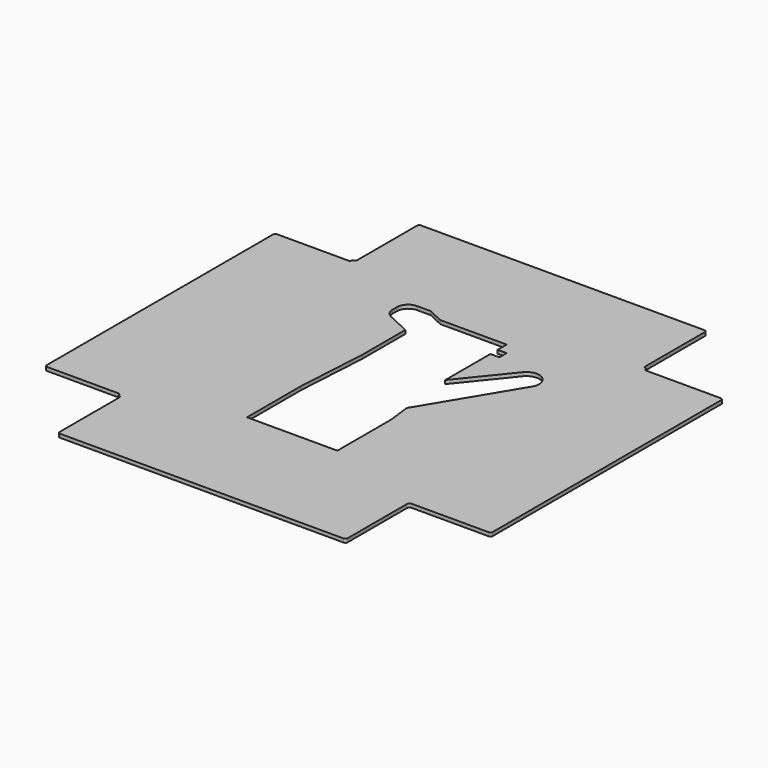
from build123d import *

# Parameters (mm, degrees)
F1_DEPTH = 4.064


with BuildPart() as f1:
    # F0 (on Top) → F1 (new body)
    with BuildSketch(Plane.XY):
        with BuildLine():
            ThreePointArc((327.758026, -3.585924), (328.687962, -1.340859), (330.933026, -0.410924))
            Line((330.933026, -0.410924), (334.172324, -0.410924))
            Line((334.172324, -0.410924), (334.172324, 326.015081))
            Line((334.172324, 326.015081), (333.473026, 326.015081))
            ThreePointArc((333.473026, 326.015081), (331.676975, 326.759029), (330.933026, 328.555081))
            Line((330.933026, 328.555081), (330.933026, 329.190081))
            Line((330.933026, 329.190081), (330.298026, 329.190081))
            ThreePointArc((330.298026, 329.190081), (328.501975, 329.934029), (327.758026, 331.730081))
            Line((327.758026, 331.730081), (327.758026, 415.550081))
            ThreePointArc((327.758026, 415.550081), (327.014077, 417.346132), (325.218026, 418.090081))
            Line((325.218026, 418.090081), (6.432805, 418.090081))
            ThreePointArc((6.432805, 418.090081), (4.636754, 417.346132), (3.892805, 415.550081))
            Line((3.892805, 415.550081), (3.892805, 331.730081))
            ThreePointArc((3.892805, 331.730081), (3.148856, 329.934029), (1.352805, 329.190081))
            Line((1.352805, 329.190081), (0.717805, 329.190081))
            Line((0.717805, 329.190081), (0.717805, 328.555081))
            ThreePointArc((0.717805, 328.555081), (-0.026144, 326.759029), (-1.822195, 326.015081))
            Line((-1.822195, 326.015081), (-81.832195, 326.015081))
            ThreePointArc((-81.832195, 326.015081), (-83.628246, 325.271132), (-84.372195, 323.475081))
            Line((-84.372195, 323.475081), (-84.372195, 5.304076))
            ThreePointArc((-84.372195, 5.304076), (-83.628246, 3.508025), (-81.832195, 2.764076))
            Line((-81.832195, 2.764076), (-1.822195, 2.764076))
            ThreePointArc((-1.822195, 2.764076), (-0.026144, 2.020128), (0.717805, 0.224076))
            Line((0.717805, 0.224076), (0.717805, -0.410924))
            Line((0.717805, -0.410924), (1.352805, -0.410924))
            ThreePointArc((1.352805, -0.410924), (3.148856, -1.154872), (3.892805, -2.950924))
            Line((3.892805, -2.950924), (3.892805, -86.770924))
            ThreePointArc((3.892805, -86.770924), (4.636754, -88.566975), (6.432805, -89.310924))
            Line((6.432805, -89.310924), (325.218026, -89.310924))
            ThreePointArc((325.218026, -89.310924), (327.014077, -88.566975), (327.758026, -86.770924))
            Line((327.758026, -86.770924), (327.758026, -3.585924))
        make_face()
        with BuildLine():
            Line((216.617805, 37.689076), (115.017805, 37.689076))
            Line((115.017805, 37.689076), (115.017805, 113.889076))
            Line((115.017805, 113.889076), (119.786382, 193.89242))
            Line((119.786382, 193.89242), (119.786382, 254.289033))
            Line((119.786382, 254.289033), (94.238274, 266.202311))
            ThreePointArc((94.238274, 266.202311), (88.894455, 270.888715), (86.905526, 277.71242))
            Line((86.905526, 277.71242), (86.905526, 283.470081))
            ThreePointArc((86.905526, 283.470081), (90.62527, 292.450337), (99.605526, 296.170081))
            Line((99.605526, 296.170081), (114.845526, 296.170081))
            Line((114.845526, 296.170081), (132.110689, 288.119203))
            Line((132.110689, 288.119203), (206.723189, 288.119203))
            Line((206.723189, 288.119203), (206.723189, 275.419203))
            Line((206.723189, 275.419203), (216.883189, 275.419203))
            Line((216.883189, 275.419203), (216.883189, 265.259203))
            Line((216.883189, 265.259203), (206.723189, 265.259203))
            Line((206.723189, 265.259203), (206.723189, 201.759203))
            Line((206.723189, 201.759203), (250.635115, 256.08015))
            ThreePointArc((250.635115, 256.08015), (269.90951, 258.82392), (274.026421, 239.795477))
            ThreePointArc((274.026421, 239.795477), (273.992995, 239.739559), (273.959315, 239.683793))
            Line((273.959315, 239.683793), (213.522324, 139.099749))
            Line((213.522324, 139.099749), (216.617805, 113.889076))
            Line((216.617805, 113.889076), (216.617805, 37.689076))
        make_face(mode=Mode.SUBTRACT)
        with BuildLine():
            Line((334.172324, 326.015081), (334.172324, -0.410924))
            Line((334.172324, -0.410924), (336.712324, -0.410924))
            Line((336.712324, -0.410924), (417.293026, -0.410924))
            ThreePointArc((417.293026, -0.410924), (419.089077, 0.333025), (419.833026, 2.129076))
            Line((419.833026, 2.129076), (419.833026, 323.475081))
            ThreePointArc((419.833026, 323.475081), (419.089077, 325.271132), (417.293026, 326.015081))
            Line((417.293026, 326.015081), (334.172324, 326.015081))
        make_face()
    extrude(amount=F1_DEPTH)


solid = f1.part
